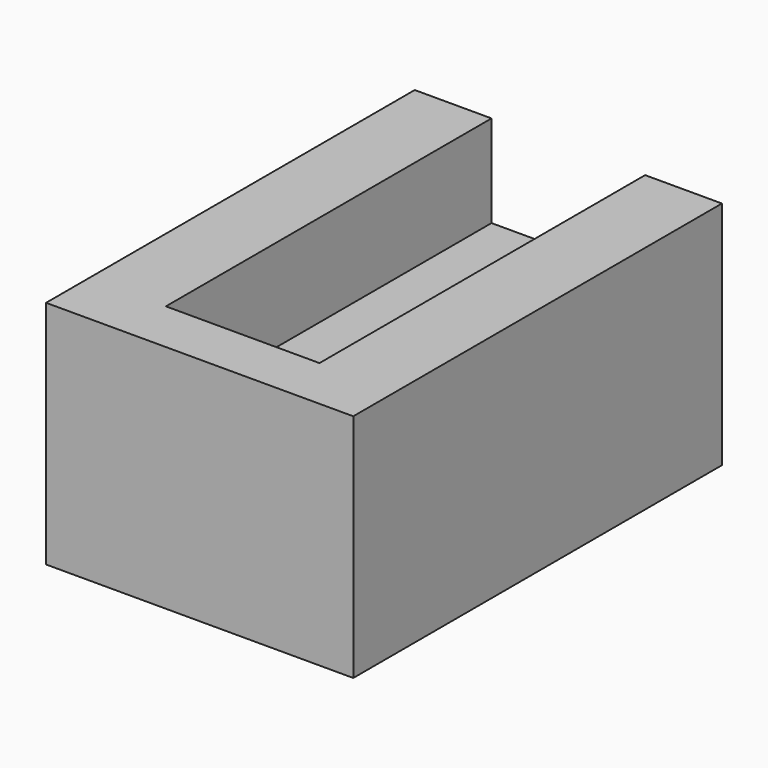
from build123d import *

# Parameters (mm, degrees)
BOX005_W     = 10
BOX005_H     = 28
BOX005_DEPTH = 10
BOX006_W     = 20
BOX006_H     = 30
BOX006_DEPTH = 15


with BuildPart() as gear_box002:
    # Box005 → Box005 (new body)
    with BuildSketch(Plane(origin=(-5, -24.5, 16), x_dir=(1, 0, 0), z_dir=(0, 0, 1))):
        with Locations((5, 14)):
            Rectangle(BOX005_W, BOX005_H)
    extrude(amount=BOX005_DEPTH)


with BuildPart() as motor_mount_cutout001:
    # Box006 → Box006 (new body)
    with BuildSketch(Plane(origin=(-10, -28, 7), x_dir=(1, 0, 0), z_dir=(0, 0, 1))):
        with Locations((10, 15)):
            Rectangle(BOX006_W, BOX006_H)
    extrude(amount=BOX006_DEPTH)

    # Cut002: cut gear_box002
    add(gear_box002.part, mode=Mode.SUBTRACT)


with BuildPart() as motor_mount_cutout001_1:
    # Cut002 placement: moved
    add(motor_mount_cutout001.part.moved(Location((0, 11.5, -44))))


solid = motor_mount_cutout001_1.part
